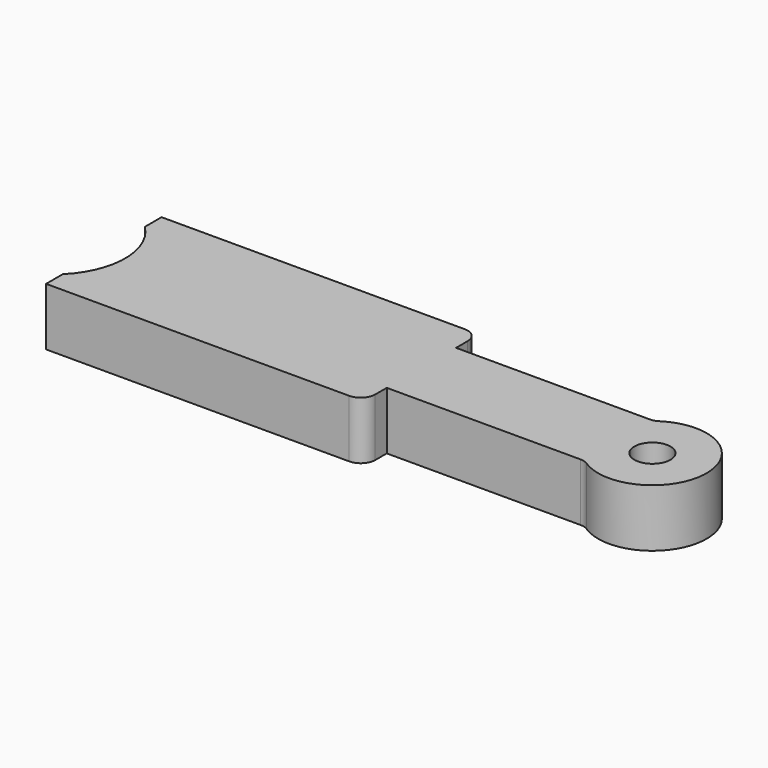
from build123d import *

# Parameters (mm, degrees)
F1_DEPTH = 25.4
F2_R     = 6.35
F3_R     = 7.9375
F4_DEPTH = 25.401


with BuildPart() as f1:
    # F0 (on Top) → F1 (new body)
    with BuildSketch(Plane.XY):
        with BuildLine():
            Line((0, 9.201151), (0, 0))
            Line((0, 0), (139.7, 0))
            Line((139.7, 0), (139.7, 12.7))
            Line((139.7, 12.7), (226.906916, 12.7))
            ThreePointArc((226.906916, 12.7), (265.176, 31.75), (226.906916, 50.8))
            Line((226.906916, 50.8), (139.7, 50.8))
            Line((139.7, 50.8), (139.7, 63.5))
            Line((139.7, 63.5), (0, 63.5))
            Line((0, 63.5), (0, 54.298849))
            ThreePointArc((0, 54.298849), (9.398, 31.75), (0, 9.201151))
        make_face()
    extrude(amount=F1_DEPTH)

    # F2
    f2_edges = [f1.edges().sort_by_distance(p)[0] for p in [
        (139.7, 0, 12.7),
        (139.7, 63.5, 12.7),
        (226.906916, 12.7, 12.7),
        (226.906916, 50.8, 12.7),
    ]]
    fillet(f2_edges, radius=F2_R)

    # F3 (on face) → F4 (cut, through all)
    with BuildSketch(Plane.XY.offset(25.4)):
        with Locations((241.3, 31.75)):
            Circle(F3_R)
    extrude(amount=-F4_DEPTH, mode=Mode.SUBTRACT)


solid = f1.part
